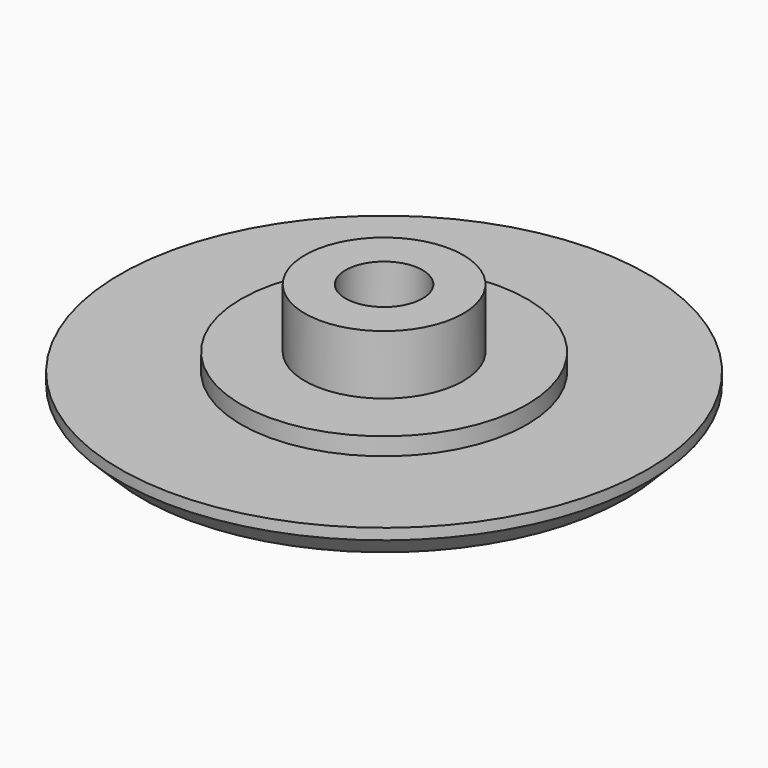
from build123d import *

# Parameters (mm, degrees)
F0_R     = 12
F0_R_2   = 6.5
F0_R_3   = 3.6
F0_R_4   = 1.75
F1_DEPTH = 1.5
F2_DEPTH = 3.5
F3_DEPTH = 0.8
F4_SIZE  = 1


with BuildPart() as f1:
    # F0 (on Top) → F1 (new body)
    with BuildSketch(Plane.XY):
        Circle(F0_R)
        Circle(F0_R_2, mode=Mode.SUBTRACT)
        Circle(F0_R_2)
        Circle(F0_R_3, mode=Mode.SUBTRACT)
        Circle(F0_R_3)
        Circle(F0_R_4, mode=Mode.SUBTRACT)
    extrude(amount=-F1_DEPTH)

    # F0 (on Top) → F2 (join)
    with BuildSketch(Plane.XY):
        Circle(F0_R_3)
        Circle(F0_R_4, mode=Mode.SUBTRACT)
    extrude(amount=F2_DEPTH)

    # F0 (on Top) → F3 (join)
    with BuildSketch(Plane.XY):
        Circle(F0_R_2)
        Circle(F0_R_3, mode=Mode.SUBTRACT)
    extrude(amount=F3_DEPTH)

    # F4
    f4_edges = [f1.edges().sort_by_distance(p)[0] for p in [
        (-12, 0, -1.5),
    ]]
    chamfer(f4_edges, length=F4_SIZE)


solid = f1.part
